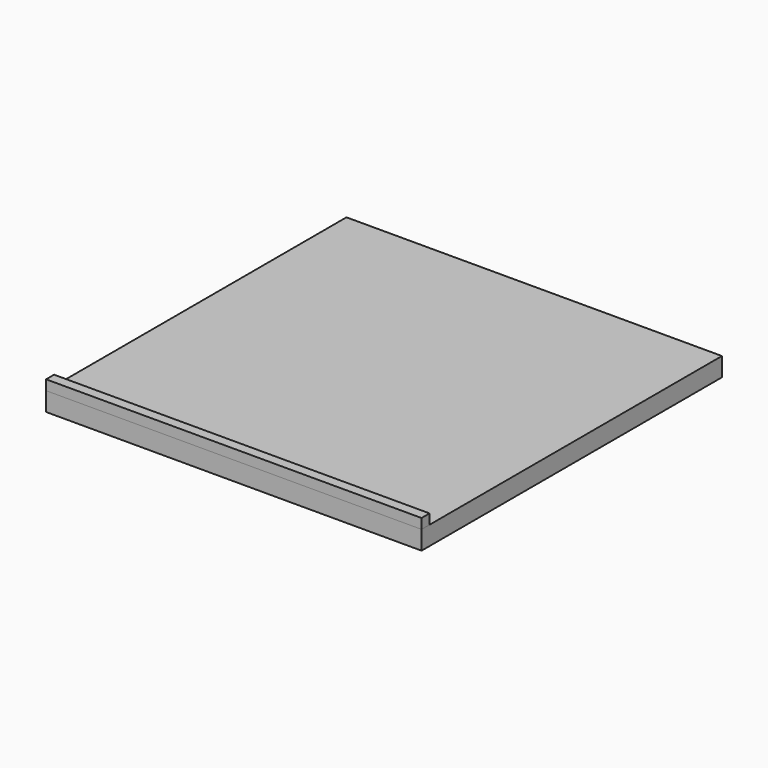
from build123d import *

# Parameters (mm, degrees)
F0_W     = 6000
F0_H     = 6000
F1_DEPTH = 300
F2_W     = 6000
F2_H     = 160
F3_DEPTH = 160


with BuildPart() as f1:
    # F0 (on Top) → F1 (new body)
    with BuildSketch(Plane.XY):
        with Locations((3000, 3000)):
            Rectangle(F0_W, F0_H)
    extrude(amount=F1_DEPTH)


with BuildPart() as f3:
    # F2 (on face) → F3 (new body)
    with BuildSketch(Plane.XZ):
        with Locations((3000, 380)):
            Rectangle(F2_W, F2_H)
    extrude(amount=-F3_DEPTH)


solid = Compound([f1.part, f3.part])
